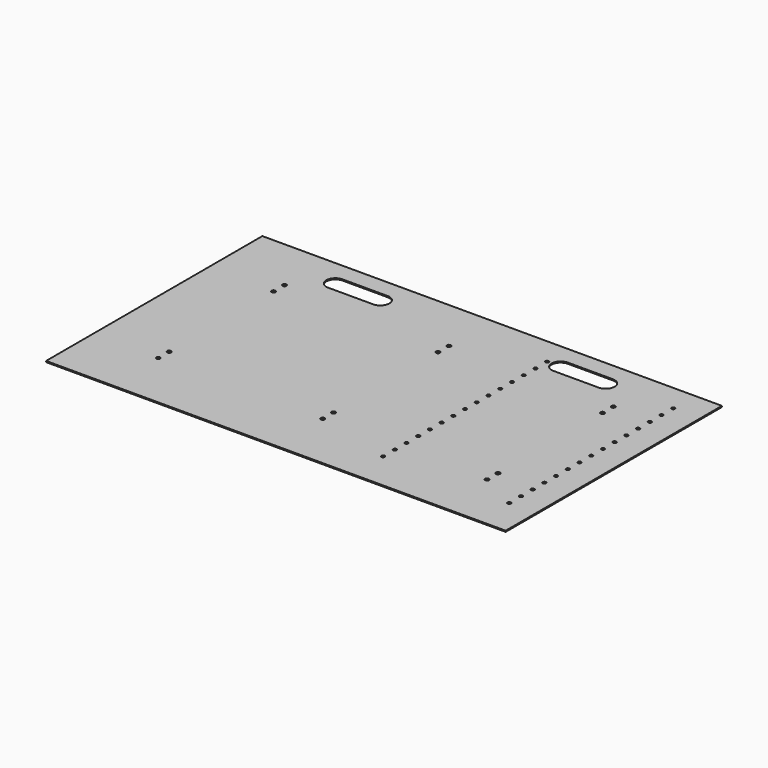
from build123d import *

# Parameters (mm, degrees)
F0_W     = 762
F0_H     = 3.175
F1_DEPTH = 647.7
F3_D     = 11.1125
F5_DEPTH = 3.175
F7_D     = 9.525


with BuildPart() as f1:
    # F0 (on Right) → F1 (new body, symmetric)
    with BuildSketch(Plane.YZ):
        Rectangle(F0_W, F0_H)
    extrude(amount=F1_DEPTH, both=True)

    # F3 (through all)
    with Locations(Plane.XY.offset(1.5875)):
        with Locations((463.55, 228.6), (463.55, 190.5), (463.55, -177.8), (463.55, -215.9), (0, 228.6), (0, 190.5), (0, -177.8), (0, -215.9), (-463.55, 190.5), (-463.55, 228.6), (-463.55, -177.8), (-463.55, -215.9)):
            Hole(F3_D / 2)

    # F4 (on face) → F5 (cut, through all)
    with BuildSketch(Plane.XY.offset(1.5875)):
        with BuildLine():
            ThreePointArc((254, 330.2), (228.6, 304.8), (254, 279.4))
            Line((254, 279.4), (381, 279.4))
            ThreePointArc((381, 279.4), (406.4, 304.8), (381, 330.2))
            Line((381, 330.2), (254, 330.2))
        make_face()
        with BuildLine():
            ThreePointArc((-381, 330.2), (-406.4, 304.8), (-381, 279.4))
            Line((-381, 279.4), (-254, 279.4))
            ThreePointArc((-254, 279.4), (-228.6, 304.8), (-254, 330.2))
            Line((-254, 330.2), (-381, 330.2))
        make_face()
    extrude(amount=-F5_DEPTH, mode=Mode.SUBTRACT)

    # F7 (through all)
    with Locations(Plane.XY.offset(1.5875)):
        with Locations((571.5, 304.8), (571.5, 263.525), (571.5, 222.25), (571.5, 180.975), (571.5, 139.7), (571.5, 98.425), (571.5, 15.875), (571.5, -149.225), (571.5, -273.05), (571.5, -231.775), (571.5, -190.5), (571.5, -66.675), (571.5, -107.95), (571.5, -25.4), (571.5, 57.15), (215.9, 98.425), (215.9, 139.7), (215.9, 180.975), (215.9, 222.25), (215.9, 263.525), (215.9, 57.15), (215.9, -25.4), (215.9, 15.875), (215.9, -107.95), (215.9, -66.675), (215.9, -149.225), (215.9, -190.5), (215.9, -231.775), (215.9, -273.05), (215.9, 304.8)):
            Hole(F7_D / 2)


solid = f1.part
